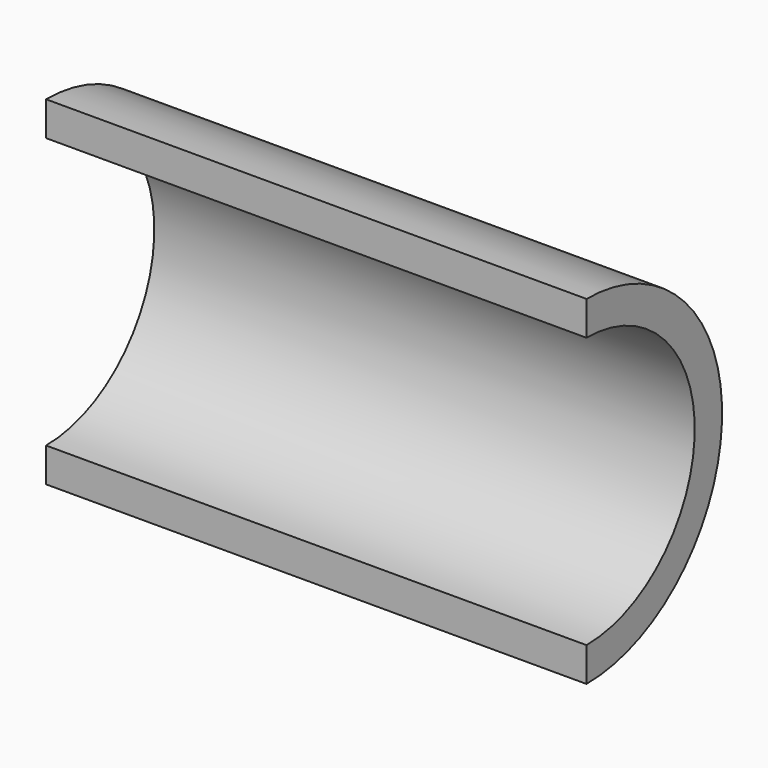
from build123d import *

# Parameters (mm, degrees)
F1_DEPTH = 44
F3_DEPTH = 44


with BuildPart() as f1:
    # F0 (on Right) → F1 (new body)
    with BuildSketch(Plane.YZ):
        with BuildLine():
            Line((0, 13.8), (0, -13.8))
            ThreePointArc((0, -13.8), (13.8, 0), (0, 13.8))
        make_face()
    extrude(amount=F1_DEPTH)

    # F2 (on Right) → F3 (cut)
    with BuildSketch(Plane.YZ):
        with BuildLine():
            Line((0, 11.015), (0, -11.015))
            ThreePointArc((0, -11.015), (11.015, 0), (0, 11.015))
        make_face()
    extrude(amount=F3_DEPTH, mode=Mode.SUBTRACT)


solid = f1.part
